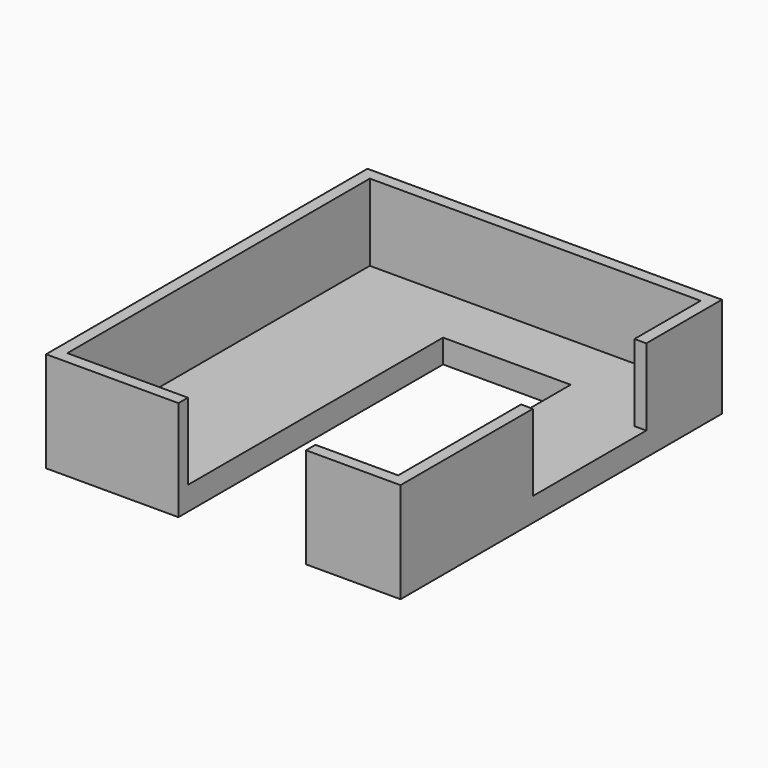
from build123d import *

# Parameters (mm, degrees)
F1_DEPTH = 6.35
F2_W     = 3.175
F2_H     = 3.175
F2_H_2   = 101.6
F2_W_2   = 88.9
F2_W_3   = 32.385
F2_W_4   = 22.225
F3_DEPTH = 20.6375
F4_W     = 38.1
F4_H     = 20.6375
F5_DEPTH = 3.175


with BuildPart() as f1:
    # F0 (on Top) → F1 (new body)
    with BuildSketch(Plane.XY):
        Polygon((59.69, 52.148615), (-35.56, 52.148615), (-35.56, -55.801385), (0, -55.801385), (0, 33.098615), (34.29, 33.098615), (34.29, -55.801385), (59.69, -55.801385), align=None)
    extrude(amount=F1_DEPTH)

    # F2 (on face) → F3 (join)
    with BuildSketch(Plane.XY.offset(6.35)):
        with Locations((-33.9725, -54.213885)):
            Rectangle(F2_W, F2_H)
        with Locations((-33.9725, -1.826385)):
            Rectangle(F2_W, F2_H_2)
        with Locations((-33.9725, 50.561115)):
            Rectangle(F2_W, F2_H)
        with Locations((12.065, 50.561115)):
            Rectangle(F2_W_2, F2_H)
        with Locations((58.1025, -1.826385)):
            Rectangle(F2_W, F2_H_2)
        with Locations((58.1025, 50.561115)):
            Rectangle(F2_W, F2_H)
        with Locations((58.1025, -54.213885)):
            Rectangle(F2_W, F2_H)
        with Locations((-16.1925, -54.213885)):
            Rectangle(F2_W_3, F2_H)
        with Locations((45.4025, -54.213885)):
            Rectangle(F2_W_4, F2_H)
    extrude(amount=F3_DEPTH)

    # F4 (on face) → F5 (cut)
    with BuildSketch(Plane.YZ.offset(59.69)):
        with Locations((7.698615, 16.66875)):
            Rectangle(F4_W, F4_H)
    extrude(amount=-F5_DEPTH, mode=Mode.SUBTRACT)


solid = f1.part
